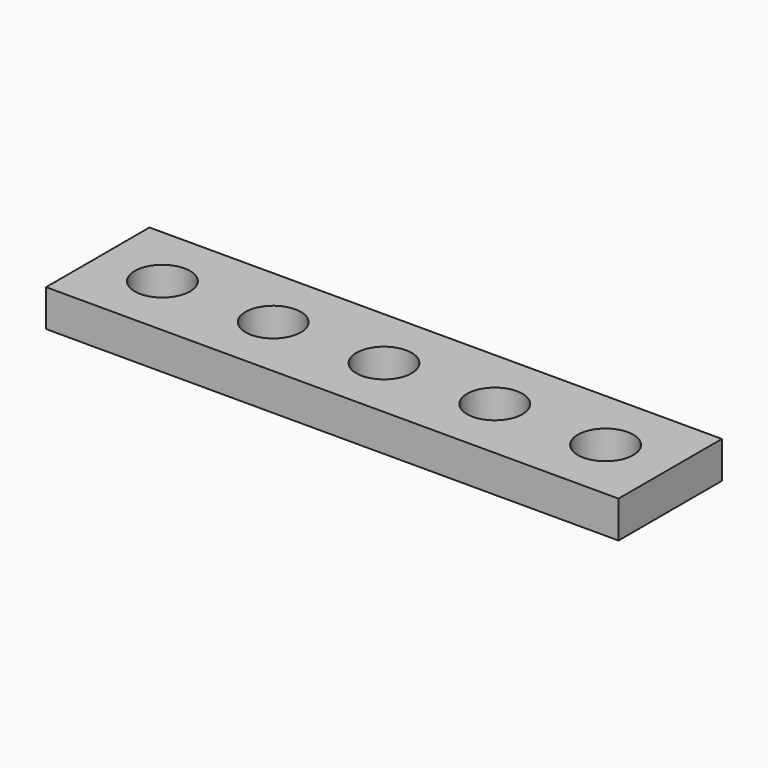
from build123d import *

# Parameters (mm, degrees)
CYLINDER002_R     = 1.5
CYLINDER002_DEPTH = 2
CYLINDER003_R     = 1.5
CYLINDER003_DEPTH = 2
CYLINDER004_R     = 1.5
CYLINDER004_DEPTH = 2
CYLINDER001_R     = 1.5
CYLINDER001_DEPTH = 2
CYLINDER_R        = 1.5
CYLINDER_DEPTH    = 2
BOX_W             = 31
BOX_H             = 7
BOX_DEPTH         = 2


with BuildPart() as cylinder002:
    # Cylinder002 → Cylinder002 (new body)
    with BuildSketch(Plane(origin=(15.5, 3.5, 0), x_dir=(1, 0, 0), z_dir=(0, 0, 1))):
        Circle(CYLINDER002_R)
    extrude(amount=CYLINDER002_DEPTH)


with BuildPart() as cylinder003:
    # Cylinder003 → Cylinder003 (new body)
    with BuildSketch(Plane(origin=(21.5, 3.5, 0), x_dir=(1, 0, 0), z_dir=(0, 0, 1))):
        Circle(CYLINDER003_R)
    extrude(amount=CYLINDER003_DEPTH)


with BuildPart() as cylinder004:
    # Cylinder004 → Cylinder004 (new body)
    with BuildSketch(Plane(origin=(9.5, 3.5, 0), x_dir=(1, 0, 0), z_dir=(0, 0, 1))):
        Circle(CYLINDER004_R)
    extrude(amount=CYLINDER004_DEPTH)


with BuildPart() as cylinder001:
    # Cylinder001 → Cylinder001 (new body)
    with BuildSketch(Plane(origin=(27.5, 3.5, 0), x_dir=(1, 0, 0), z_dir=(0, 0, 1))):
        Circle(CYLINDER001_R)
    extrude(amount=CYLINDER001_DEPTH)


with BuildPart() as cylinder:
    # Cylinder → Cylinder (new body)
    with BuildSketch(Plane(origin=(3.5, 3.5, 0), x_dir=(1, 0, 0), z_dir=(0, 0, 1))):
        Circle(CYLINDER_R)
    extrude(amount=CYLINDER_DEPTH)


with BuildPart() as cut004:
    # Box → Box (new body)
    with BuildSketch(Plane.XY):
        with Locations((15.5, 3.5)):
            Rectangle(BOX_W, BOX_H)
    extrude(amount=BOX_DEPTH)

    # Cut: cut Cylinder
    add(cylinder.part, mode=Mode.SUBTRACT)

    # Cut001: cut Cylinder001
    add(cylinder001.part, mode=Mode.SUBTRACT)

    # Cut002: cut Cylinder004
    add(cylinder004.part, mode=Mode.SUBTRACT)

    # Cut003: cut Cylinder003
    add(cylinder003.part, mode=Mode.SUBTRACT)

    # Cut004: cut Cylinder002
    add(cylinder002.part, mode=Mode.SUBTRACT)


solid = cut004.part
